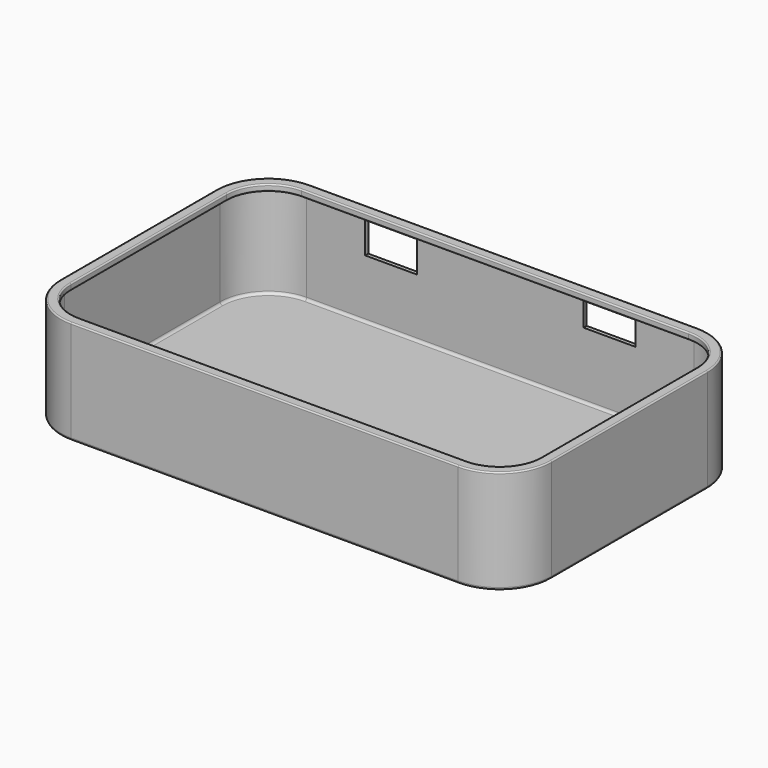
from build123d import *

# Parameters (mm, degrees)
F1_DEPTH = 20
F3_DEPTH = 19.25
F5_DEPTH = 18
F6_W     = 10
F6_H     = 6
F6_H_2   = 4.5720012859
F7_DEPTH = 28.7263803184
F8_R     = 0.25
F9_R     = 0.5


with BuildPart() as f1:
    # F0 (on Top) → F1 (new body)
    with BuildSketch(Plane.XY):
        with BuildLine():
            ThreePointArc((47.25, 18.7263803184), (44.3210678119, 25.7974481303), (37.25, 28.7263803184))
            Line((37.25, 28.7263803184), (-37.25, 28.7263803184))
            ThreePointArc((-37.25, 28.7263803184), (-44.3210678119, 25.7974481303), (-47.25, 18.7263803184))
            Line((-47.25, 18.7263803184), (-47.25, -18.7263803184))
            ThreePointArc((-47.25, -18.7263803184), (-44.3210678119, -25.7974481303), (-37.25, -28.7263803184))
            Line((-37.25, -28.7263803184), (37.25, -28.7263803184))
            ThreePointArc((37.25, -28.7263803184), (44.3210678119, -25.7974481303), (47.25, -18.7263803184))
            Line((47.25, -18.7263803184), (47.25, 18.7263803184))
        make_face()
    extrude(amount=-F1_DEPTH)

    # F2 (on Top) → F3 (cut)
    with BuildSketch(Plane.XY):
        with BuildLine():
            Line((-45.25, 18.7263803184), (-45.25, -18.7263803184))
            ThreePointArc((-45.25, -18.7263803184), (-42.9068542495, -24.3832345679), (-37.25, -26.7263803184))
            Line((-37.25, -26.7263803184), (37.25, -26.7263803184))
            ThreePointArc((37.25, -26.7263803184), (42.9068542495, -24.3832345679), (45.25, -18.7263803184))
            Line((45.25, -18.7263803184), (45.25, 18.7263803184))
            ThreePointArc((45.25, 18.7263803184), (42.9068542495, 24.3832345679), (37.25, 26.7263803184))
            Line((37.25, 26.7263803184), (-37.25, 26.7263803184))
            ThreePointArc((-37.25, 26.7263803184), (-42.9068542495, 24.3832345679), (-45.25, 18.7263803184))
        make_face()
    extrude(amount=-F3_DEPTH, mode=Mode.SUBTRACT)

    # F4 (on face) → F5 (cut)
    with BuildSketch(Plane.XY.offset(-19.25)):
        with BuildLine():
            ThreePointArc((46.5, 18.7263803184), (43.790737726, 25.2671180444), (37.25, 27.9763803184))
            Line((37.25, 27.9763803184), (-37.25, 27.9763803184))
            ThreePointArc((-37.25, 27.9763803184), (-43.790737726, 25.2671180444), (-46.5, 18.7263803184))
            Line((-46.5, 18.7263803184), (-46.5, -18.7263803184))
            ThreePointArc((-46.5, -18.7263803184), (-43.790737726, -25.2671180444), (-37.25, -27.9763803184))
            Line((-37.25, -27.9763803184), (37.25, -27.9763803184))
            ThreePointArc((37.25, -27.9763803184), (43.790737726, -25.2671180444), (46.5, -18.7263803184))
            Line((46.5, -18.7263803184), (46.5, 18.7263803184))
        make_face()
    extrude(amount=F5_DEPTH, mode=Mode.SUBTRACT)

    # F6 (on Front) → F7 (cut, through all)
    with BuildSketch(Plane.XZ):
        with Locations((-21, -5)):
            Rectangle(F6_W, F6_H)
        with Locations((21, -4.2860006429)):
            Rectangle(F6_W, F6_H_2)
    extrude(amount=-F7_DEPTH, mode=Mode.SUBTRACT)

    # F8
    f8_edges = [f1.edges().sort_by_distance(p)[0] for p in [
        (-45.25, 0, 0),
        (-47.25, 0, 0),
        (-44.321068, 25.797448, 0),
        (-42.906854, 24.383235, 0),
        (0, 28.72638, 0),
        (0, 26.72638, 0),
        (44.321068, 25.797448, 0),
        (42.906854, 24.383235, 0),
        (47.25, 0, 0),
        (45.25, 0, 0),
        (44.321068, -25.797448, 0),
        (42.906854, -24.383235, 0),
        (0, -28.72638, 0),
        (0, -26.72638, 0),
        (-44.321068, -25.797448, 0),
        (-42.906854, -24.383235, 0),
        (-45.25, 0, -1.25),
        (-42.906854, 24.383235, -1.25),
        (0, 26.72638, -1.25),
        (42.906854, 24.383235, -1.25),
        (45.25, 0, -1.25),
        (0, -26.72638, -1.25),
        (42.906854, -24.383235, -1.25),
        (-42.906854, -24.383235, -1.25),
    ]]
    fillet(f8_edges, radius=F8_R)

    # F9
    f9_edges = [f1.edges().sort_by_distance(p)[0] for p in [
        (-44.321068, -25.797448, -20),
        (0, -28.72638, -20),
        (-47.25, 0, -20),
        (-44.321068, 25.797448, -20),
        (0, 28.72638, -20),
        (44.321068, 25.797448, -20),
        (47.25, 0, -20),
        (44.321068, -25.797448, -20),
        (-46.5, 0, -19.25),
        (-43.790738, 25.267118, -19.25),
        (0, 27.97638, -19.25),
        (43.790738, 25.267118, -19.25),
        (46.5, 0, -19.25),
        (43.790738, -25.267118, -19.25),
        (0, -27.97638, -19.25),
        (-43.790738, -25.267118, -19.25),
    ]]
    fillet(f9_edges, radius=F9_R)


solid = f1.part
